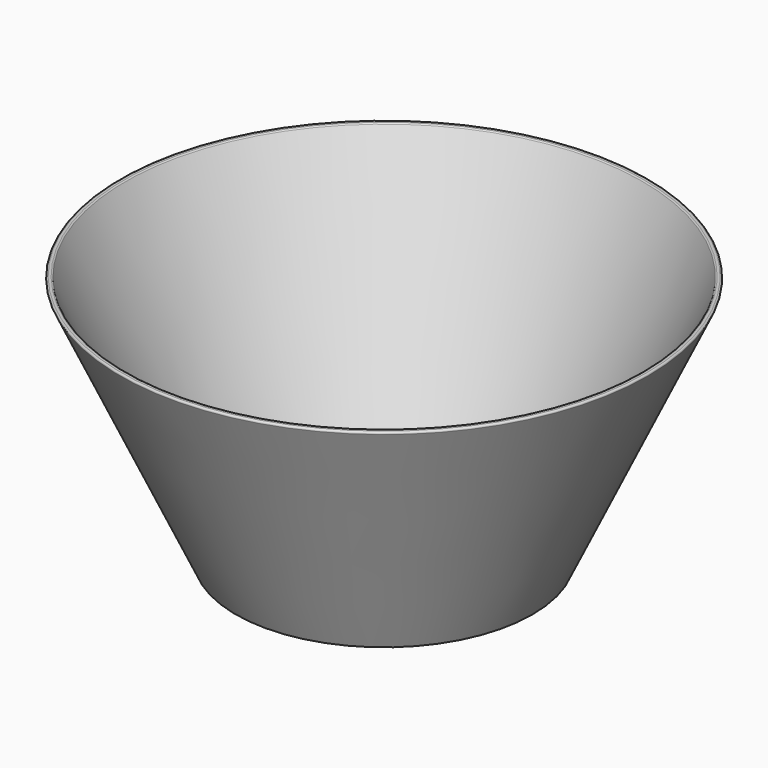
from build123d import *

# Parameters (mm, degrees)
F0_R     = 47
F1_DEPTH = 79
F1_TAPER = -25
F2_R     = 82
F3_DEPTH = 71
F3_TAPER = 25
F4_R     = 20
F5_DEPTH = 2
F6_R     = 0.5


with BuildPart() as f1:
    # F0 (on Top) → F1 (new body)
    with BuildSketch(Plane.XY):
        Circle(F0_R)
    extrude(amount=F1_DEPTH, taper=F1_TAPER)

    # F2 (on face) → F3 (cut)
    with BuildSketch(Plane.XY.offset(79)):
        Circle(F2_R)
    extrude(amount=-F3_DEPTH, taper=F3_TAPER, mode=Mode.SUBTRACT)

    # F4 (on face) → F5 (cut)
    with BuildSketch(Plane.XY.offset(8)):
        Circle(F4_R)
    extrude(amount=-F5_DEPTH, mode=Mode.SUBTRACT)

    # F6
    f6_edges = [f1.edges().sort_by_distance(p)[0] for p in [
        (-83.838305, 0, 79),
        (-82, 0, 79),
    ]]
    fillet(f6_edges, radius=F6_R)


solid = f1.part
